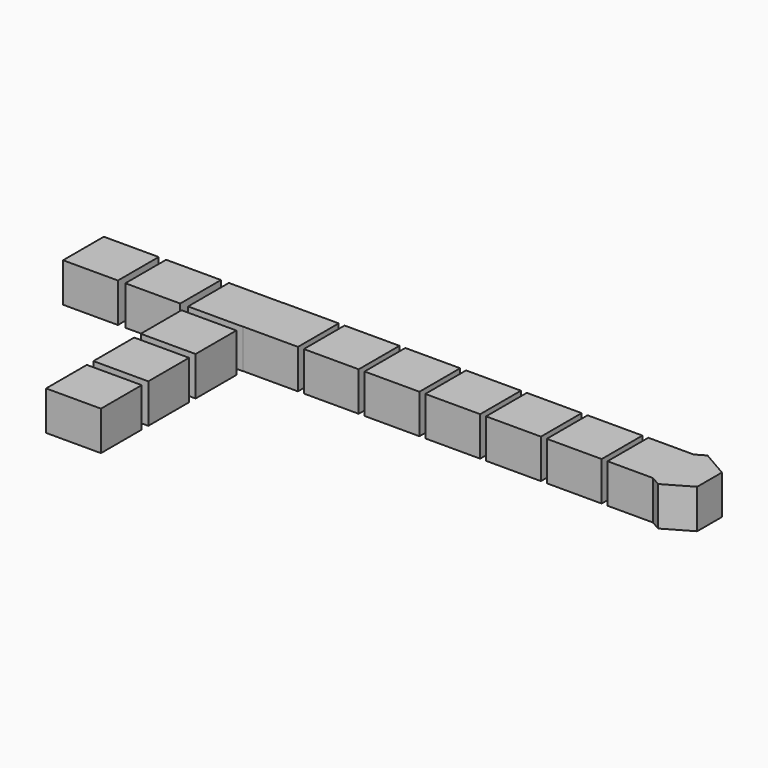
from build123d import *

# Parameters (mm, degrees)
F1_DEPTH = 10


with BuildPart() as f1:
    # F0 (on Top) → F1 (new body)
    with BuildSketch(Plane.XY):
        Polygon((0, 12.953434), (0, 0), (14, 0), (14, 6.5), (14, 13), (0, 13), align=None)
        Polygon((0, -0.046566), (0, 0), (0, 12.953434), (-14, 12.953434), (-14, 6.453434), (-14, -0.046566), align=None)
        Polygon((-31.906402, -0.046566), (-31.906402, 6.453434), (-31.906402, 12.953434), (-45.906402, 12.953434), (-45.906402, -0.046566), align=None)
        Polygon((-16.006402, -0.046566), (-16.006402, 6.453434), (-16.006402, 12.953434), (-30.006402, 12.953434), (-30.006402, 6.453434), (-30.006402, -0.046566), align=None)
        Polygon((93, 13), (93, 6.5), (93, 0), (104.592459, 0), (100.167064, 2.555003), (100.167064, 10.444997), (104.592459, 13), align=None)
        Polygon((77.5, 13), (77.5, 6.5), (77.5, 0), (91.5, 0), (91.5, 6.5), (91.5, 13), align=None)
        Polygon((62, 13), (62, 6.5), (62, 0), (76, 0), (76, 6.5), (76, 13), align=None)
        Polygon((46.5, 13), (46.5, 6.5), (46.5, 0), (60.5, 0), (60.5, 6.5), (60.5, 13), align=None)
        Polygon((31, 13), (31, 6.5), (31, 0), (45, 0), (45, 6.5), (45, 13), align=None)
        Polygon((15.5, 13), (15.5, 6.5), (15.5, 0), (29.5, 0), (29.5, 6.5), (29.5, 13), align=None)
        Polygon((0, -32.346566), (-7, -32.346566), (-14, -32.346566), (-14, -45.346566), (0, -45.346566), align=None)
        Polygon((0, -17.246566), (-7, -17.246566), (-14, -17.246566), (-14, -30.246566), (-7, -30.246566), (0, -30.246566), align=None)
        Polygon((-7, -15.146566), (0, -15.146566), (0, -2.146566), (-14, -2.146566), (-14, -15.146566), align=None)
        Polygon((100.167064, 2.555003), (104.592459, 0), (107, -1.389995), (113.832936, 2.555003), (113.832936, 10.444997), (107, 14.389995), (104.592459, 13), (100.167064, 10.444997), align=None)
    extrude(amount=F1_DEPTH)


solid = f1.part
